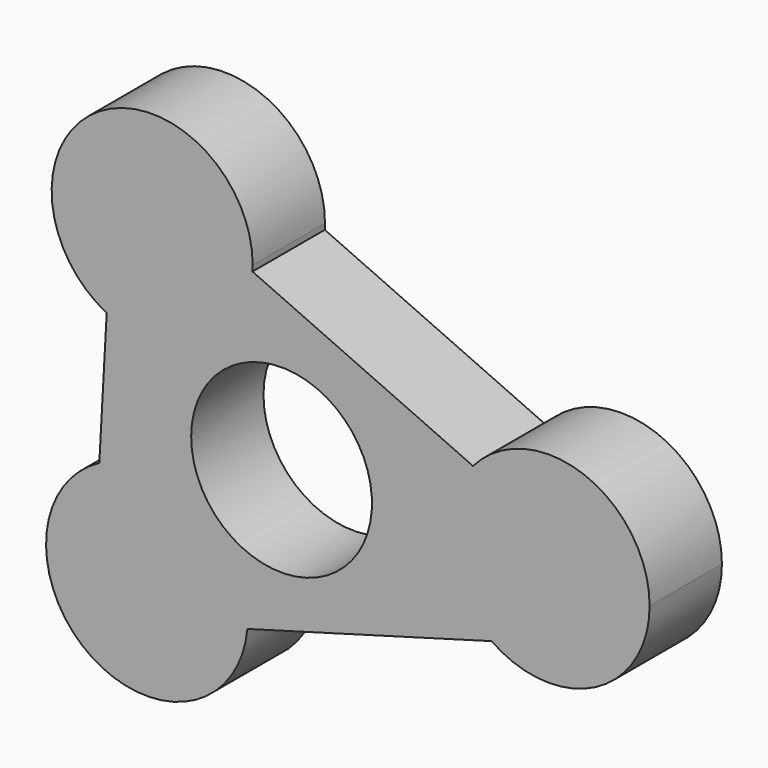
from build123d import *

# Parameters (mm, degrees)
F1_DEPTH = 25.4
F3_D     = 50.8


with BuildPart() as f1:
    # F0 (on Front) → F1 (new body)
    with BuildSketch(Plane.XZ):
        with BuildLine():
            ThreePointArc((-31.312975, -26.242166), (-48.090014, -12.740536), (-69.513528, -14.930531))
            ThreePointArc((-69.513528, -14.930531), (-71.776943, -63.544039), (-27.91269, -42.465056))
            ThreePointArc((-27.91269, -42.465056), (-27.826332, -41.190238), (-27.797526, -39.912824))
            ThreePointArc((-27.797526, -39.912824), (-28.690456, -32.855111), (-31.312975, -26.242166))
        make_face()
        with BuildLine():
            ThreePointArc((-26.461022, 46.405404), (-26.426196, 47.214586), (-26.414584, 48.024435))
            ThreePointArc((-26.414584, 48.024435), (-69.441686, 72.09536), (-67.439622, 22.833482))
            ThreePointArc((-67.439622, 22.833482), (-49.122707, 20.326115), (-33.178403, 29.68429))
            ThreePointArc((-33.178403, 29.68429), (-28.450546, 37.494811), (-26.461022, 46.405404))
        make_face()
        with BuildLine():
            ThreePointArc((-33.178403, 29.68429), (-49.122707, 20.326115), (-67.439622, 22.833482))
            Line((-67.439622, 22.833482), (-69.513528, -14.930531))
            ThreePointArc((-69.513528, -14.930531), (-48.090014, -12.740536), (-31.312975, -26.242166))
            Line((-31.312975, -26.242166), (30.625931, -10.4459))
            ThreePointArc((30.625931, -10.4459), (28.964672, -4.375974), (28.688407, 1.911113))
            Line((28.688407, 1.911113), (-33.178403, 29.68429))
        make_face()
        with BuildLine():
            Line((30.625931, -10.4459), (-31.312975, -26.242166))
            ThreePointArc((-31.312975, -26.242166), (-28.690456, -32.855111), (-27.797526, -39.912824))
            ThreePointArc((-27.797526, -39.912824), (-27.826332, -41.190238), (-27.91269, -42.465056))
            Line((-27.91269, -42.465056), (40.718013, -23.174369))
            ThreePointArc((40.718013, -23.174369), (34.737368, -17.551158), (30.625931, -10.4459))
        make_face()
        with BuildLine():
            ThreePointArc((85.123252, 0), (66.722686, 26.477219), (35.491498, 18.462432))
            ThreePointArc((35.491498, 18.462432), (30.744764, 10.739686), (28.688407, 1.911113))
            ThreePointArc((28.688407, 1.911113), (28.964672, -4.375974), (30.625931, -10.4459))
            ThreePointArc((30.625931, -10.4459), (34.737368, -17.551158), (40.718013, -23.174369))
            ThreePointArc((40.718013, -23.174369), (69.943704, -25.044344), (85.123252, 0))
        make_face()
        with BuildLine():
            Line((35.491498, 18.462432), (-26.461022, 46.405404))
            ThreePointArc((-26.461022, 46.405404), (-28.450546, 37.494811), (-33.178403, 29.68429))
            Line((-33.178403, 29.68429), (28.688407, 1.911113))
            ThreePointArc((28.688407, 1.911113), (30.744764, 10.739686), (35.491498, 18.462432))
        make_face()
    extrude(amount=F1_DEPTH)

    # F3 (through all)
    with Locations(Plane(origin=(0, 0, 0), x_dir=(1, 0, 0), z_dir=(0, 1, 0))):
        with Locations((-18.298317, 0)):
            Hole(F3_D / 2)


solid = f1.part
